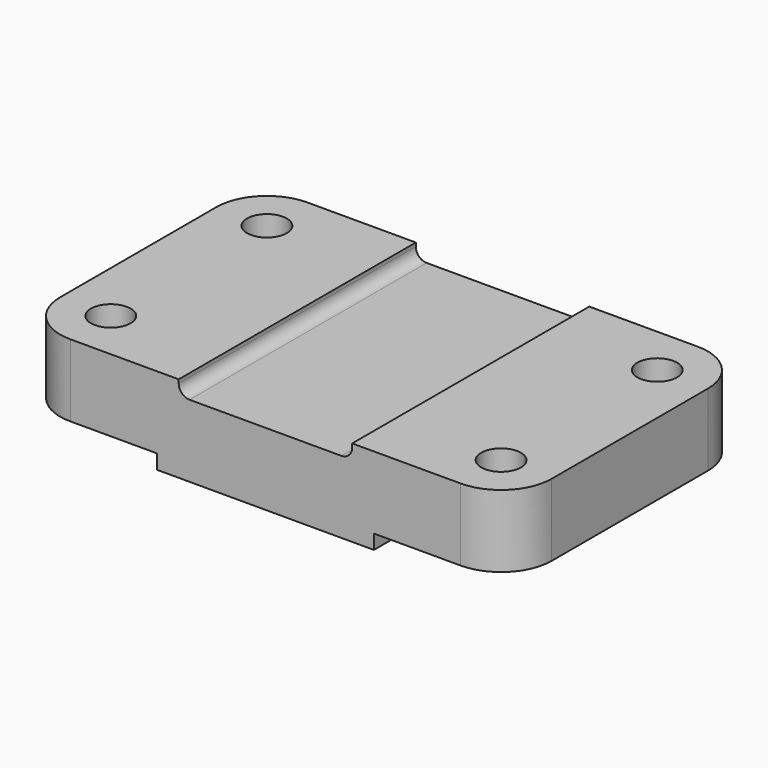
from build123d import *

# Parameters (mm, degrees)
F0_R     = 5.5
F0_W     = 48
F0_H     = 82
F1_DEPTH = 24
F2_DEPTH = 4
F3_R     = 3
F4_R     = 5.5
F5_DEPTH = 4


with BuildPart() as f1:
    # F0 (on Top) → F1 (new body)
    with BuildSketch(Plane.XY):
        with BuildLine():
            Line((-14, 54), (-14, 0))
            ThreePointArc((-14, 0), (-9.899495, -9.899495), (0, -14))
            Line((0, -14), (30, -14))
            Line((30, -14), (30, 68))
            Line((30, 68), (0, 68))
            ThreePointArc((0, 68), (-9.899495, 63.899495), (-14, 54))
        make_face()
        Circle(F0_R, mode=Mode.SUBTRACT)
        with Locations((0, 54)):
            Circle(F0_R, mode=Mode.SUBTRACT)
        with Locations((54, 27)):
            Rectangle(F0_W, F0_H)
        with BuildLine():
            Line((78, 68), (78, -14))
            Line((78, -14), (108, -14))
            ThreePointArc((108, -14), (117.899495, -9.899495), (122, 0))
            Line((122, 0), (122, 54))
            ThreePointArc((122, 54), (117.899495, 63.899495), (108, 68))
            Line((108, 68), (78, 68))
        make_face()
        with Locations((108, 0)):
            Circle(F0_R, mode=Mode.SUBTRACT)
        with Locations((108, 54)):
            Circle(F0_R, mode=Mode.SUBTRACT)
    extrude(amount=-F1_DEPTH)

    # F0 (on Top) → F2 (cut)
    with BuildSketch(Plane.XY):
        with Locations((54, 27)):
            Rectangle(F0_W, F0_H)
    extrude(amount=-F2_DEPTH, mode=Mode.SUBTRACT)

    # F3
    f3_edges = [f1.edges().sort_by_distance(p)[0] for p in [
        (78, 27, -4),
        (30, 27, -4),
    ]]
    fillet(f3_edges, radius=F3_R)

    # F4 (on face) → F5 (cut)
    with BuildSketch(Plane(origin=(0, 0, -24), x_dir=(1, 0, 0), z_dir=(0, 0, -1))):
        with BuildLine():
            Line((24, -68), (24, 14))
            Line((24, 14), (0, 14))
            ThreePointArc((0, 14), (-9.899495, 9.899495), (-14, 0))
            Line((-14, 0), (-14, -54))
            ThreePointArc((-14, -54), (-9.899495, -63.899495), (0, -68))
            Line((0, -68), (24, -68))
        make_face()
        with Locations((0, -54)):
            Circle(F4_R, mode=Mode.SUBTRACT)
        Circle(F4_R, mode=Mode.SUBTRACT)
        with BuildLine():
            Line((108, 14), (84, 14))
            Line((84, 14), (84, -68))
            Line((84, -68), (108, -68))
            ThreePointArc((108, -68), (117.899495, -63.899495), (122, -54))
            Line((122, -54), (122, 0))
            ThreePointArc((122, 0), (117.899495, 9.899495), (108, 14))
        make_face()
        with Locations((108, -54)):
            Circle(F4_R, mode=Mode.SUBTRACT)
        with Locations((108, 0)):
            Circle(F4_R, mode=Mode.SUBTRACT)
    extrude(amount=-F5_DEPTH, mode=Mode.SUBTRACT)


solid = f1.part
